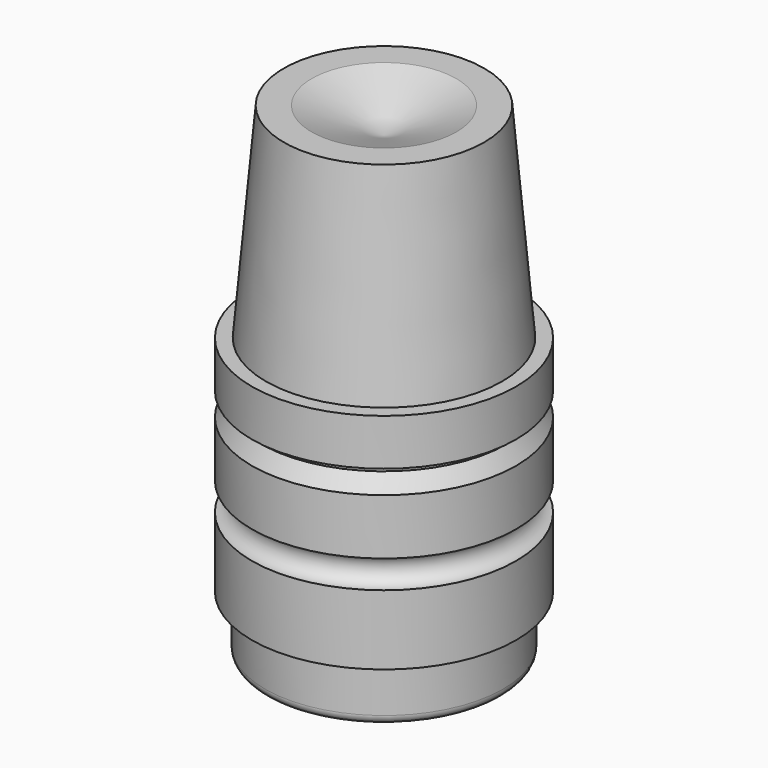
from build123d import *


with BuildPart() as f1:
    # F0 (on Front) → F1 (revolve)
    with BuildSketch(Plane.XZ):
        with BuildLine():
            Line((3.6068, 7.996998), (3.3782, 7.996998))
            Line((3.3782, 7.996998), (3.2258, 7.996998))
            Line((3.2258, 7.996998), (2.736913, 13.584998))
            Line((2.736913, 13.584998), (1.974913, 13.584998))
            Line((1.974913, 13.584998), (0, 12.866188))
            Line((0, 12.866188), (0, 0.3556))
            Line((0, 0.3556), (2.9972, 0.3556))
            ThreePointArc((2.9972, 0.3556), (3.176805, 0.429995), (3.2512, 0.6096))
            Line((3.2512, 0.6096), (3.2512, 1.900786))
            Line((3.2512, 1.900786), (3.6068, 1.900786))
            Line((3.6068, 1.900786), (3.6068, 3.805786))
            ThreePointArc((3.6068, 3.805786), (3.2258, 4.186786), (3.6068, 4.567786))
            Line((3.6068, 4.567786), (3.6068, 6.091786))
            Line((3.6068, 6.091786), (3.3528, 6.531727))
            Line((3.3528, 6.531727), (3.3528, 6.726786))
            Line((3.3528, 6.726786), (3.6068, 6.726786))
            Line((3.6068, 6.726786), (3.6068, 7.742998))
            Line((3.6068, 7.742998), (3.6068, 7.996998))
        make_face()
    revolve(axis=Axis((0, 0, 6.433094), (0, 0, -1)))


solid = f1.part
